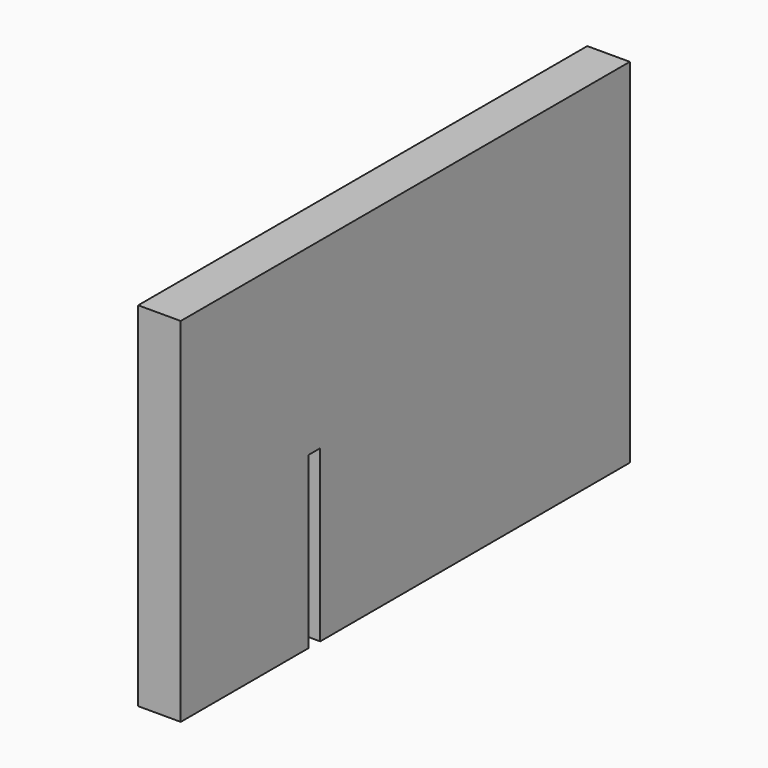
from build123d import *

# Parameters (mm, degrees)
EXTRUDE_DEPTH = 10


with BuildPart() as part:
    # Sketch → Extrude (new body)
    with BuildSketch(Plane.YZ):
        Polygon((-132, -18), (-132, 65), (0, 65), (0, -18), (-91, -18), (-91, 22), (-94.5, 22), (-94.5, -18), align=None)
    extrude(amount=EXTRUDE_DEPTH)


solid = part.part
